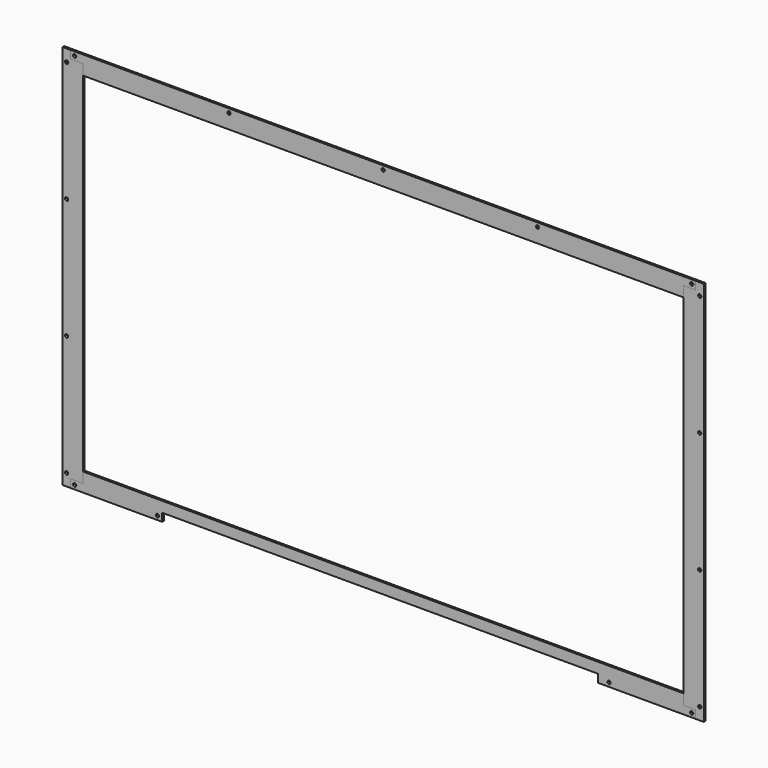
from build123d import *

# Parameters (mm, degrees)
F0_W     = 12.7
F0_H     = 12.7
F0_H_2   = 585.7875
F1_DEPTH = 1.5875
F0_R     = 5.969
F0_W_2   = 951.992
F0_H_3   = 16.66875
F2_DEPTH = 1.5875
F3_DEPTH = 1.5875
F0_W_3   = 125.69698
F0_W_4   = 690.59806
F0_W_5   = 135.69696
F4_DEPTH = 1.5875


with BuildPart() as f1:
    # F0 (on Front) → F1 (new body, symmetric)
    with BuildSketch(Plane.XZ):
        with Locations((-501.65, -299.24375)):
            Rectangle(F0_W, F0_H)
        Polygon((-475.996, 276.225), (-475.996, 292.89375), (-495.3, 292.89375), (-495.3, -292.89375), (-475.996, -292.89375), (-475.996, -276.225), align=None)
        with Locations((-501.65, 0)):
            Rectangle(F0_W, F0_H_2)
        Polygon((-504.19, -284.00375), (-501.65, -284.00375), (-499.11, -284.00375), (-499.11, -286.54375), (-499.11, -289.08375), (-501.65, -289.08375), (-504.19, -289.08375), (-504.19, -286.54375), align=None, mode=Mode.SUBTRACT)
        Polygon((-504.19, -92.974583), (-501.65, -92.974583), (-499.11, -92.974583), (-499.11, -95.514583), (-499.11, -98.054583), (-501.65, -98.054583), (-504.19, -98.054583), (-504.19, -95.514583), align=None, mode=Mode.SUBTRACT)
        Polygon((-504.19, 98.054583), (-501.65, 98.054583), (-499.11, 98.054583), (-499.11, 95.514583), (-499.11, 92.974583), (-501.65, 92.974583), (-504.19, 92.974583), (-504.19, 95.514583), align=None, mode=Mode.SUBTRACT)
        Polygon((-501.65, 284.00375), (-504.19, 284.00375), (-504.19, 286.54375), (-504.19, 289.08375), (-501.65, 289.08375), (-499.11, 289.08375), (-499.11, 286.54375), (-499.11, 284.00375), align=None, mode=Mode.SUBTRACT)
        with BuildLine():
            ThreePointArc((-504.19, -286.54375), (-503.446051, -284.747699), (-501.65, -284.00375))
            Line((-501.65, -284.00375), (-504.19, -284.00375))
            Line((-504.19, -284.00375), (-504.19, -286.54375))
        make_face()
        with BuildLine():
            ThreePointArc((-501.65, -289.08375), (-503.446051, -288.339801), (-504.19, -286.54375))
            Line((-504.19, -286.54375), (-504.19, -289.08375))
            Line((-504.19, -289.08375), (-501.65, -289.08375))
        make_face()
        with BuildLine():
            Line((-499.11, -289.08375), (-499.11, -286.54375))
            ThreePointArc((-499.11, -286.54375), (-499.853949, -288.339801), (-501.65, -289.08375))
            Line((-501.65, -289.08375), (-499.11, -289.08375))
        make_face()
        with BuildLine():
            Line((-499.11, -284.00375), (-501.65, -284.00375))
            ThreePointArc((-501.65, -284.00375), (-499.853949, -284.747699), (-499.11, -286.54375))
            Line((-499.11, -286.54375), (-499.11, -284.00375))
        make_face()
        with BuildLine():
            ThreePointArc((-504.19, -95.514583), (-503.446051, -93.718532), (-501.65, -92.974583))
            Line((-501.65, -92.974583), (-504.19, -92.974583))
            Line((-504.19, -92.974583), (-504.19, -95.514583))
        make_face()
        with BuildLine():
            Line((-499.11, -92.974583), (-501.65, -92.974583))
            ThreePointArc((-501.65, -92.974583), (-499.853949, -93.718532), (-499.11, -95.514583))
            Line((-499.11, -95.514583), (-499.11, -92.974583))
        make_face()
        with BuildLine():
            ThreePointArc((-501.65, -98.054583), (-503.446051, -97.310635), (-504.19, -95.514583))
            Line((-504.19, -95.514583), (-504.19, -98.054583))
            Line((-504.19, -98.054583), (-501.65, -98.054583))
        make_face()
        with BuildLine():
            Line((-499.11, -98.054583), (-499.11, -95.514583))
            ThreePointArc((-499.11, -95.514583), (-499.853949, -97.310635), (-501.65, -98.054583))
            Line((-501.65, -98.054583), (-499.11, -98.054583))
        make_face()
        with BuildLine():
            ThreePointArc((-504.19, 95.514583), (-503.446051, 97.310635), (-501.65, 98.054583))
            Line((-501.65, 98.054583), (-504.19, 98.054583))
            Line((-504.19, 98.054583), (-504.19, 95.514583))
        make_face()
        with BuildLine():
            Line((-499.11, 98.054583), (-501.65, 98.054583))
            ThreePointArc((-501.65, 98.054583), (-499.853949, 97.310635), (-499.11, 95.514583))
            Line((-499.11, 95.514583), (-499.11, 98.054583))
        make_face()
        with BuildLine():
            Line((-499.11, 92.974583), (-499.11, 95.514583))
            ThreePointArc((-499.11, 95.514583), (-499.853949, 93.718532), (-501.65, 92.974583))
            Line((-501.65, 92.974583), (-499.11, 92.974583))
        make_face()
        with BuildLine():
            ThreePointArc((-501.65, 92.974583), (-503.446051, 93.718532), (-504.19, 95.514583))
            Line((-504.19, 95.514583), (-504.19, 92.974583))
            Line((-504.19, 92.974583), (-501.65, 92.974583))
        make_face()
        with BuildLine():
            Line((-504.19, 286.54375), (-504.19, 284.00375))
            Line((-504.19, 284.00375), (-501.65, 284.00375))
            ThreePointArc((-501.65, 284.00375), (-503.446051, 284.747699), (-504.19, 286.54375))
        make_face()
        with BuildLine():
            Line((-504.19, 289.08375), (-504.19, 286.54375))
            ThreePointArc((-504.19, 286.54375), (-503.446051, 288.339801), (-501.65, 289.08375))
            Line((-501.65, 289.08375), (-504.19, 289.08375))
        make_face()
        with BuildLine():
            Line((-499.11, 289.08375), (-501.65, 289.08375))
            ThreePointArc((-501.65, 289.08375), (-499.853949, 288.339801), (-499.11, 286.54375))
            Line((-499.11, 286.54375), (-499.11, 289.08375))
        make_face()
        with BuildLine():
            ThreePointArc((-499.11, 286.54375), (-499.853949, 284.747699), (-501.65, 284.00375))
            Line((-501.65, 284.00375), (-499.11, 284.00375))
            Line((-499.11, 284.00375), (-499.11, 286.54375))
        make_face()
        Polygon((-508, 292.89375), (-495.3, 292.89375), (-508, 305.59375), align=None)
        Polygon((-495.3, 292.89375), (-495.3, 305.59375), (-508, 305.59375), align=None)
    extrude(amount=F1_DEPTH, both=True)


with BuildPart() as f2:
    # F0 (on Front) → F2 (new body, symmetric)
    with BuildSketch(Plane.XZ):
        Polygon((475.996, 292.89375), (495.3, 292.89375), (495.3, 305.59375), (-495.3, 305.59375), (-495.3, 292.89375), (-475.996, 292.89375), align=None)
        with Locations((-488.95, 299.24375)):
            Circle(F0_R, mode=Mode.SUBTRACT)
        Polygon((-244.475, 301.78375), (-241.935, 301.78375), (-241.935, 299.24375), (-241.935, 296.70375), (-244.475, 296.70375), (-247.015, 296.70375), (-247.015, 299.24375), (-247.015, 301.78375), align=None, mode=Mode.SUBTRACT)
        Polygon((0, 301.78375), (2.54, 301.78375), (2.54, 299.24375), (2.54, 296.70375), (0, 296.70375), (-2.54, 296.70375), (-2.54, 299.24375), (-2.54, 301.78375), align=None, mode=Mode.SUBTRACT)
        Polygon((244.475, 296.70375), (241.935, 296.70375), (241.935, 299.24375), (241.935, 301.78375), (244.475, 301.78375), (247.015, 301.78375), (247.015, 299.24375), (247.015, 296.70375), align=None, mode=Mode.SUBTRACT)
        Polygon((486.41, 299.24375), (486.41, 301.78375), (488.95, 301.78375), (491.49, 301.78375), (491.49, 299.24375), (491.49, 296.70375), (488.95, 296.70375), (486.41, 296.70375), align=None, mode=Mode.SUBTRACT)
        with Locations((-488.95, 299.24375)):
            Circle(F0_R)
        Polygon((-486.41, 299.24375), (-486.41, 296.70375), (-488.95, 296.70375), (-491.49, 296.70375), (-491.49, 299.24375), (-491.49, 301.78375), (-488.95, 301.78375), (-486.41, 301.78375), align=None, mode=Mode.SUBTRACT)
        with BuildLine():
            Line((-488.95, 296.70375), (-486.41, 296.70375))
            Line((-486.41, 296.70375), (-486.41, 299.24375))
            ThreePointArc((-486.41, 299.24375), (-487.153949, 297.447699), (-488.95, 296.70375))
        make_face()
        with BuildLine():
            Line((-491.49, 296.70375), (-488.95, 296.70375))
            ThreePointArc((-488.95, 296.70375), (-490.746051, 297.447699), (-491.49, 299.24375))
            Line((-491.49, 299.24375), (-491.49, 296.70375))
        make_face()
        with BuildLine():
            Line((-491.49, 301.78375), (-491.49, 299.24375))
            ThreePointArc((-491.49, 299.24375), (-490.746051, 301.039801), (-488.95, 301.78375))
            Line((-488.95, 301.78375), (-491.49, 301.78375))
        make_face()
        with BuildLine():
            ThreePointArc((-488.95, 301.78375), (-487.153949, 301.039801), (-486.41, 299.24375))
            Line((-486.41, 299.24375), (-486.41, 301.78375))
            Line((-486.41, 301.78375), (-488.95, 301.78375))
        make_face()
        with Locations((0, 284.559375)):
            Rectangle(F0_W_2, F0_H_3)
        with BuildLine():
            Line((-241.935, 299.24375), (-241.935, 301.78375))
            Line((-241.935, 301.78375), (-244.475, 301.78375))
            ThreePointArc((-244.475, 301.78375), (-242.678949, 301.039801), (-241.935, 299.24375))
        make_face()
        with BuildLine():
            ThreePointArc((-247.015, 299.24375), (-246.271051, 301.039801), (-244.475, 301.78375))
            Line((-244.475, 301.78375), (-247.015, 301.78375))
            Line((-247.015, 301.78375), (-247.015, 299.24375))
        make_face()
        with BuildLine():
            ThreePointArc((-244.475, 296.70375), (-246.271051, 297.447699), (-247.015, 299.24375))
            Line((-247.015, 299.24375), (-247.015, 296.70375))
            Line((-247.015, 296.70375), (-244.475, 296.70375))
        make_face()
        with BuildLine():
            Line((-241.935, 296.70375), (-241.935, 299.24375))
            ThreePointArc((-241.935, 299.24375), (-242.678949, 297.447699), (-244.475, 296.70375))
            Line((-244.475, 296.70375), (-241.935, 296.70375))
        make_face()
        with BuildLine():
            ThreePointArc((-2.54, 299.24375), (-1.796051, 301.039801), (0, 301.78375))
            Line((0, 301.78375), (-2.54, 301.78375))
            Line((-2.54, 301.78375), (-2.54, 299.24375))
        make_face()
        with BuildLine():
            Line((2.54, 299.24375), (2.54, 301.78375))
            Line((2.54, 301.78375), (0, 301.78375))
            ThreePointArc((0, 301.78375), (1.796051, 301.039801), (2.54, 299.24375))
        make_face()
        with BuildLine():
            Line((2.54, 296.70375), (2.54, 299.24375))
            ThreePointArc((2.54, 299.24375), (1.796051, 297.447699), (0, 296.70375))
            Line((0, 296.70375), (2.54, 296.70375))
        make_face()
        with BuildLine():
            ThreePointArc((0, 296.70375), (-1.796051, 297.447699), (-2.54, 299.24375))
            Line((-2.54, 299.24375), (-2.54, 296.70375))
            Line((-2.54, 296.70375), (0, 296.70375))
        make_face()
        with BuildLine():
            Line((241.935, 301.78375), (241.935, 299.24375))
            ThreePointArc((241.935, 299.24375), (242.678949, 301.039801), (244.475, 301.78375))
            Line((244.475, 301.78375), (241.935, 301.78375))
        make_face()
        with BuildLine():
            ThreePointArc((244.475, 301.78375), (246.271051, 301.039801), (247.015, 299.24375))
            Line((247.015, 299.24375), (247.015, 301.78375))
            Line((247.015, 301.78375), (244.475, 301.78375))
        make_face()
        with BuildLine():
            Line((241.935, 299.24375), (241.935, 296.70375))
            Line((241.935, 296.70375), (244.475, 296.70375))
            ThreePointArc((244.475, 296.70375), (242.678949, 297.447699), (241.935, 299.24375))
        make_face()
        with BuildLine():
            ThreePointArc((247.015, 299.24375), (246.271051, 297.447699), (244.475, 296.70375))
            Line((244.475, 296.70375), (247.015, 296.70375))
            Line((247.015, 296.70375), (247.015, 299.24375))
        make_face()
        with BuildLine():
            Line((488.95, 301.78375), (486.41, 301.78375))
            Line((486.41, 301.78375), (486.41, 299.24375))
            ThreePointArc((486.41, 299.24375), (487.153949, 301.039801), (488.95, 301.78375))
        make_face()
        with BuildLine():
            Line((491.49, 301.78375), (488.95, 301.78375))
            ThreePointArc((488.95, 301.78375), (490.746051, 301.039801), (491.49, 299.24375))
            Line((491.49, 299.24375), (491.49, 301.78375))
        make_face()
        with BuildLine():
            Line((491.49, 296.70375), (491.49, 299.24375))
            ThreePointArc((491.49, 299.24375), (490.746051, 297.447699), (488.95, 296.70375))
            Line((488.95, 296.70375), (491.49, 296.70375))
        make_face()
        with BuildLine():
            ThreePointArc((488.95, 296.70375), (487.153949, 297.447699), (486.41, 299.24375))
            Line((486.41, 299.24375), (486.41, 296.70375))
            Line((486.41, 296.70375), (488.95, 296.70375))
        make_face()
    extrude(amount=F2_DEPTH, both=True)


with BuildPart() as f3:
    # F0 (on Front) → F3 (new body, symmetric)
    with BuildSketch(Plane.XZ):
        with Locations((501.65, -299.24375)):
            Rectangle(F0_W, F0_H)
        Polygon((495.3, -292.89375), (495.3, 292.89375), (475.996, 292.89375), (475.996, 276.225), (475.996, -276.225), (475.996, -292.89375), align=None)
        with Locations((501.65, 0)):
            Rectangle(F0_W, F0_H_2)
        Polygon((501.65, -289.08375), (499.11, -289.08375), (499.11, -286.54375), (499.11, -284.00375), (501.65, -284.00375), (504.19, -284.00375), (504.19, -286.54375), (504.19, -289.08375), align=None, mode=Mode.SUBTRACT)
        Polygon((501.65, -98.054583), (499.11, -98.054583), (499.11, -95.514583), (499.11, -92.974583), (501.65, -92.974583), (504.19, -92.974583), (504.19, -95.514583), (504.19, -98.054583), align=None, mode=Mode.SUBTRACT)
        Polygon((504.19, 95.514583), (504.19, 92.974583), (501.65, 92.974583), (499.11, 92.974583), (499.11, 95.514583), (499.11, 98.054583), (501.65, 98.054583), (504.19, 98.054583), align=None, mode=Mode.SUBTRACT)
        Polygon((501.65, 284.00375), (499.11, 284.00375), (499.11, 286.54375), (499.11, 289.08375), (501.65, 289.08375), (504.19, 289.08375), (504.19, 286.54375), (504.19, 284.00375), align=None, mode=Mode.SUBTRACT)
        with BuildLine():
            Line((499.11, -286.54375), (499.11, -289.08375))
            Line((499.11, -289.08375), (501.65, -289.08375))
            ThreePointArc((501.65, -289.08375), (499.853949, -288.339801), (499.11, -286.54375))
        make_face()
        with BuildLine():
            Line((499.11, -284.00375), (499.11, -286.54375))
            ThreePointArc((499.11, -286.54375), (499.853949, -284.747699), (501.65, -284.00375))
            Line((501.65, -284.00375), (499.11, -284.00375))
        make_face()
        with BuildLine():
            ThreePointArc((501.65, -284.00375), (503.446051, -284.747699), (504.19, -286.54375))
            Line((504.19, -286.54375), (504.19, -284.00375))
            Line((504.19, -284.00375), (501.65, -284.00375))
        make_face()
        with BuildLine():
            ThreePointArc((504.19, -286.54375), (503.446051, -288.339801), (501.65, -289.08375))
            Line((501.65, -289.08375), (504.19, -289.08375))
            Line((504.19, -289.08375), (504.19, -286.54375))
        make_face()
        with BuildLine():
            Line((499.11, -92.974583), (499.11, -95.514583))
            ThreePointArc((499.11, -95.514583), (499.853949, -93.718532), (501.65, -92.974583))
            Line((501.65, -92.974583), (499.11, -92.974583))
        make_face()
        with BuildLine():
            ThreePointArc((501.65, -92.974583), (503.446051, -93.718532), (504.19, -95.514583))
            Line((504.19, -95.514583), (504.19, -92.974583))
            Line((504.19, -92.974583), (501.65, -92.974583))
        make_face()
        with BuildLine():
            ThreePointArc((504.19, -95.514583), (503.446051, -97.310635), (501.65, -98.054583))
            Line((501.65, -98.054583), (504.19, -98.054583))
            Line((504.19, -98.054583), (504.19, -95.514583))
        make_face()
        with BuildLine():
            Line((499.11, -95.514583), (499.11, -98.054583))
            Line((499.11, -98.054583), (501.65, -98.054583))
            ThreePointArc((501.65, -98.054583), (499.853949, -97.310635), (499.11, -95.514583))
        make_face()
        with BuildLine():
            Line((499.11, 98.054583), (499.11, 95.514583))
            ThreePointArc((499.11, 95.514583), (499.853949, 97.310635), (501.65, 98.054583))
            Line((501.65, 98.054583), (499.11, 98.054583))
        make_face()
        with BuildLine():
            ThreePointArc((501.65, 98.054583), (503.446051, 97.310635), (504.19, 95.514583))
            Line((504.19, 95.514583), (504.19, 98.054583))
            Line((504.19, 98.054583), (501.65, 98.054583))
        make_face()
        with BuildLine():
            Line((501.65, 92.974583), (504.19, 92.974583))
            Line((504.19, 92.974583), (504.19, 95.514583))
            ThreePointArc((504.19, 95.514583), (503.446051, 93.718532), (501.65, 92.974583))
        make_face()
        with BuildLine():
            Line((499.11, 92.974583), (501.65, 92.974583))
            ThreePointArc((501.65, 92.974583), (499.853949, 93.718532), (499.11, 95.514583))
            Line((499.11, 95.514583), (499.11, 92.974583))
        make_face()
        with Locations((501.65, 299.24375)):
            Rectangle(F0_W, F0_H)
        with BuildLine():
            Line((499.11, 289.08375), (499.11, 286.54375))
            ThreePointArc((499.11, 286.54375), (499.853949, 288.339801), (501.65, 289.08375))
            Line((501.65, 289.08375), (499.11, 289.08375))
        make_face()
        with BuildLine():
            Line((504.19, 289.08375), (501.65, 289.08375))
            ThreePointArc((501.65, 289.08375), (503.446051, 288.339801), (504.19, 286.54375))
            Line((504.19, 286.54375), (504.19, 289.08375))
        make_face()
        with BuildLine():
            ThreePointArc((504.19, 286.54375), (503.446051, 284.747699), (501.65, 284.00375))
            Line((501.65, 284.00375), (504.19, 284.00375))
            Line((504.19, 284.00375), (504.19, 286.54375))
        make_face()
        with BuildLine():
            Line((499.11, 286.54375), (499.11, 284.00375))
            Line((499.11, 284.00375), (501.65, 284.00375))
            ThreePointArc((501.65, 284.00375), (499.853949, 284.747699), (499.11, 286.54375))
        make_face()
    extrude(amount=F3_DEPTH, both=True)


with BuildPart() as f4:
    # F0 (on Front) → F4 (new body, symmetric)
    with BuildSketch(Plane.XZ):
        Polygon((-475.996, -292.89375), (-495.3, -292.89375), (-495.3, -305.59375), (-350.29902, -305.59375), (-350.29902, -292.89375), align=None)
        Polygon((-486.41, -299.24375), (-486.41, -301.78375), (-488.95, -301.78375), (-491.49, -301.78375), (-491.49, -299.24375), (-491.49, -296.70375), (-488.95, -296.70375), (-486.41, -296.70375), align=None, mode=Mode.SUBTRACT)
        Polygon((-357.84, -296.70375), (-355.3, -296.70375), (-355.3, -299.24375), (-355.3, -301.78375), (-357.84, -301.78375), (-360.38, -301.78375), (-360.38, -299.24375), (-360.38, -296.70375), align=None, mode=Mode.SUBTRACT)
        with Locations((-413.14751, -284.559375)):
            Rectangle(F0_W_3, F0_H_3)
        with BuildLine():
            Line((-488.95, -301.78375), (-486.41, -301.78375))
            Line((-486.41, -301.78375), (-486.41, -299.24375))
            ThreePointArc((-486.41, -299.24375), (-487.153949, -301.039801), (-488.95, -301.78375))
        make_face()
        with BuildLine():
            Line((-491.49, -301.78375), (-488.95, -301.78375))
            ThreePointArc((-488.95, -301.78375), (-490.746051, -301.039801), (-491.49, -299.24375))
            Line((-491.49, -299.24375), (-491.49, -301.78375))
        make_face()
        with BuildLine():
            Line((-491.49, -296.70375), (-491.49, -299.24375))
            ThreePointArc((-491.49, -299.24375), (-490.746051, -297.447699), (-488.95, -296.70375))
            Line((-488.95, -296.70375), (-491.49, -296.70375))
        make_face()
        with BuildLine():
            ThreePointArc((-488.95, -296.70375), (-487.153949, -297.447699), (-486.41, -299.24375))
            Line((-486.41, -299.24375), (-486.41, -296.70375))
            Line((-486.41, -296.70375), (-488.95, -296.70375))
        make_face()
        with BuildLine():
            ThreePointArc((-360.38, -299.24375), (-359.636051, -297.447699), (-357.84, -296.70375))
            Line((-357.84, -296.70375), (-360.38, -296.70375))
            Line((-360.38, -296.70375), (-360.38, -299.24375))
        make_face()
        with BuildLine():
            Line((-355.3, -299.24375), (-355.3, -296.70375))
            Line((-355.3, -296.70375), (-357.84, -296.70375))
            ThreePointArc((-357.84, -296.70375), (-356.043949, -297.447699), (-355.3, -299.24375))
        make_face()
        with BuildLine():
            Line((-355.3, -301.78375), (-355.3, -299.24375))
            ThreePointArc((-355.3, -299.24375), (-356.043949, -301.039801), (-357.84, -301.78375))
            Line((-357.84, -301.78375), (-355.3, -301.78375))
        make_face()
        with BuildLine():
            ThreePointArc((-357.84, -301.78375), (-359.636051, -301.039801), (-360.38, -299.24375))
            Line((-360.38, -299.24375), (-360.38, -301.78375))
            Line((-360.38, -301.78375), (-357.84, -301.78375))
        make_face()
        with Locations((-4.99999, -284.559375)):
            Rectangle(F0_W_4, F0_H_3)
        with Locations((408.14752, -284.559375)):
            Rectangle(F0_W_5, F0_H_3)
        Polygon((495.3, -305.59375), (495.3, -292.89375), (475.996, -292.89375), (340.29904, -292.89375), (340.29904, -305.59375), align=None)
        Polygon((357.84, -296.70375), (360.38, -296.70375), (360.38, -299.24375), (360.38, -301.78375), (357.84, -301.78375), (355.3, -301.78375), (355.3, -299.24375), (355.3, -296.70375), align=None, mode=Mode.SUBTRACT)
        Polygon((486.41, -299.24375), (486.41, -296.70375), (488.95, -296.70375), (491.49, -296.70375), (491.49, -299.24375), (491.49, -301.78375), (488.95, -301.78375), (486.41, -301.78375), align=None, mode=Mode.SUBTRACT)
        with BuildLine():
            ThreePointArc((355.3, -299.24375), (356.043949, -297.447699), (357.84, -296.70375))
            Line((357.84, -296.70375), (355.3, -296.70375))
            Line((355.3, -296.70375), (355.3, -299.24375))
        make_face()
        with BuildLine():
            Line((360.38, -299.24375), (360.38, -296.70375))
            Line((360.38, -296.70375), (357.84, -296.70375))
            ThreePointArc((357.84, -296.70375), (359.636051, -297.447699), (360.38, -299.24375))
        make_face()
        with BuildLine():
            Line((360.38, -301.78375), (360.38, -299.24375))
            ThreePointArc((360.38, -299.24375), (359.636051, -301.039801), (357.84, -301.78375))
            Line((357.84, -301.78375), (360.38, -301.78375))
        make_face()
        with BuildLine():
            Line((355.3, -301.78375), (357.84, -301.78375))
            ThreePointArc((357.84, -301.78375), (356.043949, -301.039801), (355.3, -299.24375))
            Line((355.3, -299.24375), (355.3, -301.78375))
        make_face()
        with BuildLine():
            Line((488.95, -296.70375), (486.41, -296.70375))
            Line((486.41, -296.70375), (486.41, -299.24375))
            ThreePointArc((486.41, -299.24375), (487.153949, -297.447699), (488.95, -296.70375))
        make_face()
        with BuildLine():
            Line((491.49, -296.70375), (488.95, -296.70375))
            ThreePointArc((488.95, -296.70375), (490.746051, -297.447699), (491.49, -299.24375))
            Line((491.49, -299.24375), (491.49, -296.70375))
        make_face()
        with BuildLine():
            ThreePointArc((491.49, -299.24375), (490.746051, -301.039801), (488.95, -301.78375))
            Line((488.95, -301.78375), (491.49, -301.78375))
            Line((491.49, -301.78375), (491.49, -299.24375))
        make_face()
        with BuildLine():
            ThreePointArc((488.95, -301.78375), (487.153949, -301.039801), (486.41, -299.24375))
            Line((486.41, -299.24375), (486.41, -301.78375))
            Line((486.41, -301.78375), (488.95, -301.78375))
        make_face()
    extrude(amount=F4_DEPTH, both=True)


solid = Compound([f1.part, f2.part, f3.part, f4.part])
